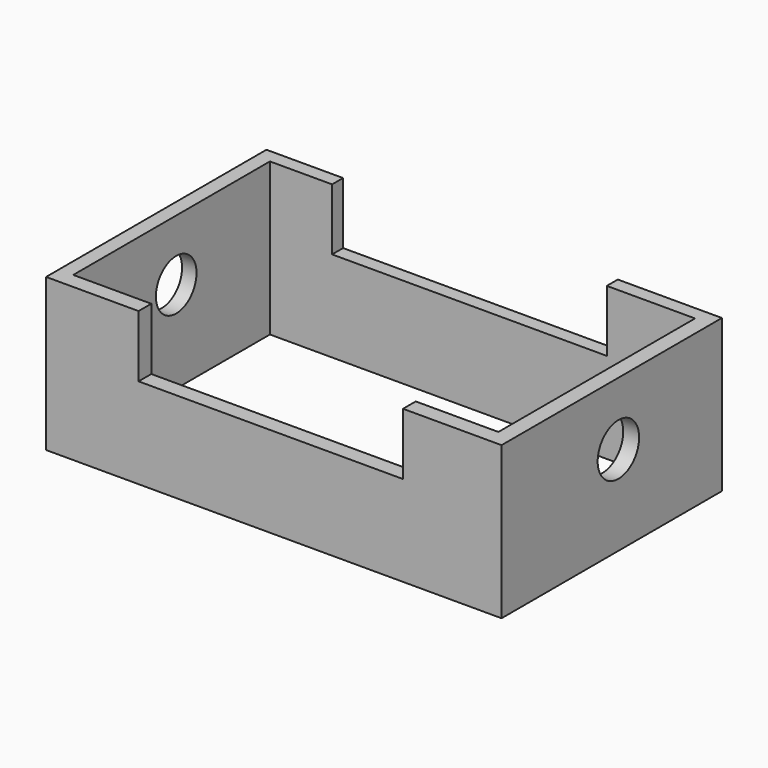
from build123d import *

# Parameters (mm, degrees)
F0_W     = 151.8262028694
F0_H     = 91.8187052011
F0_W_2   = 141.7044624686
F0_H_2   = 81.9379538298
F1_DEPTH = 50.8
F2_W     = 88.1531722844
F2_H     = 20.622967425
F3_DEPTH = 25.4
F4_R     = 8.6388854617
F5_DEPTH = 25.4
F6_R     = 8.4622870675
F7_DEPTH = 25.4
F8_W     = 91.5777124465
F8_H     = 20.5506539524
F9_DEPTH = 25.4


with BuildPart() as f1:
    # F0 (on Top) → F1 (new body)
    with BuildSketch(Plane.XY):
        with Locations((-0.12049824, -9.6397586167)):
            Rectangle(F0_W, F0_H)
        with Locations((-0.3614909947, -9.278267622)):
            Rectangle(F0_W_2, F0_H_2, mode=Mode.SUBTRACT)
    extrude(amount=F1_DEPTH)

    # F2 (on face) → F3 (cut)
    with BuildSketch(Plane.XZ.offset(55.5491112173)):
        with Locations((-1.130355522, 40.4885162875)):
            Rectangle(F2_W, F2_H)
    extrude(amount=-F3_DEPTH, mode=Mode.SUBTRACT)

    # F4 (on face) → F5 (cut)
    with BuildSketch(Plane.YZ.offset(75.7926031947)):
        with Locations((-6.8683284335, 29.7627560794)):
            Circle(F4_R)
    extrude(amount=-F5_DEPTH, mode=Mode.SUBTRACT)

    # F6 (on face) → F7 (cut)
    with BuildSketch(Plane.YZ.offset(-71.213722229)):
        with Locations((-7.3503162712, 30.4857380688)):
            Circle(F6_R)
    extrude(amount=-F7_DEPTH, mode=Mode.SUBTRACT)

    # F8 (on face) → F9 (cut)
    with BuildSketch(Plane(origin=(0, 36.2695939839, 0), x_dir=(-1, 0, 0), z_dir=(0, 1, 0))):
        with Locations((4.6993810683, 40.5246730238)):
            Rectangle(F8_W, F8_H)
    extrude(amount=-F9_DEPTH, mode=Mode.SUBTRACT)


solid = f1.part
